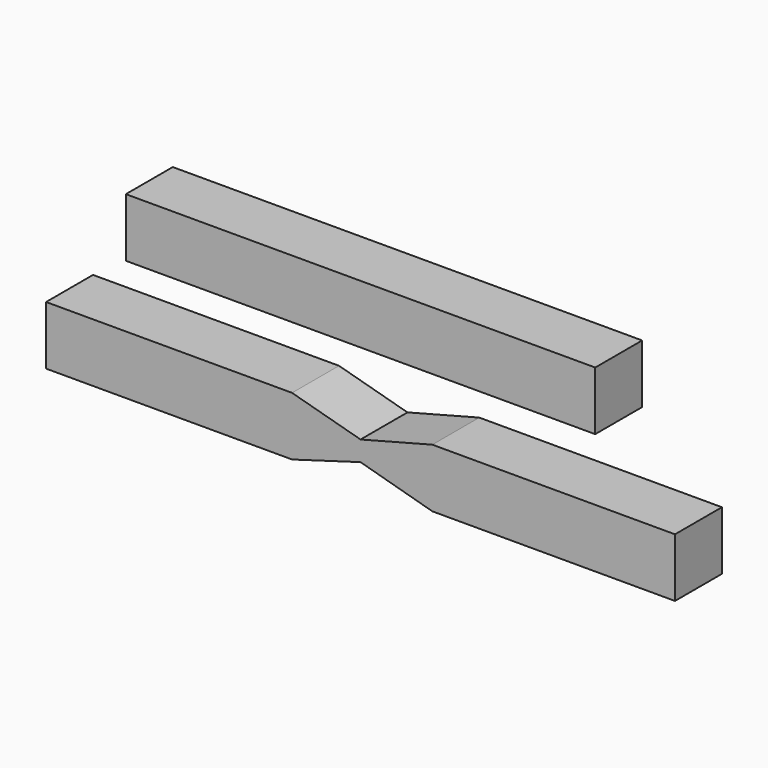
from build123d import *

# Parameters (mm, degrees)
F0_W     = 22.885122633
F0_H     = 25.4
F0_W_2   = 155.7029187679
F0_W_3   = 24.6119585991
F1_DEPTH = 25.4
F0_W_4   = 16.8366357684
F0_W_5   = 18.5634717345


with BuildPart() as f1:
    # F0 (on Front) → F1 (new body)
    with BuildSketch(Plane.XZ):
        with Locations((-90.1574386835, 29.6333333333)):
            Rectangle(F0_W, F0_H)
        with Locations((-0.8634179831, 29.6333333333)):
            Rectangle(F0_W_2, F0_H)
        with Locations((89.2940207005, 29.6333333333)):
            Rectangle(F0_W_3, F0_H)
    extrude(amount=F1_DEPTH)


with BuildPart() as f1b:
    # F0 (on Front) → F1, piece 2 (new body)
    with BuildSketch(Plane.XZ):
        with Locations((-127.7138032019, -22.7001075029)):
            Rectangle(F0_W_4, F0_H)
        Polygon((-119.2954853177, -10.0001075029), (-119.2954853177, -35.4001075029), (-29.6439938247, -35.4001075029), (0, -26.7659369856), (31.0830250382, -35.4001075029), (117.5686493516, -35.4001075029), (117.5686493516, -10.0001075029), (31.0830250382, -10.0001075029), (0, -18.131762743), (-29.6439938247, -10.0001075029), align=None)
        with Locations((126.8503852189, -22.7001075029)):
            Rectangle(F0_W_5, F0_H)
    extrude(amount=F1_DEPTH)


solid = Compound([f1.part, f1b.part])
